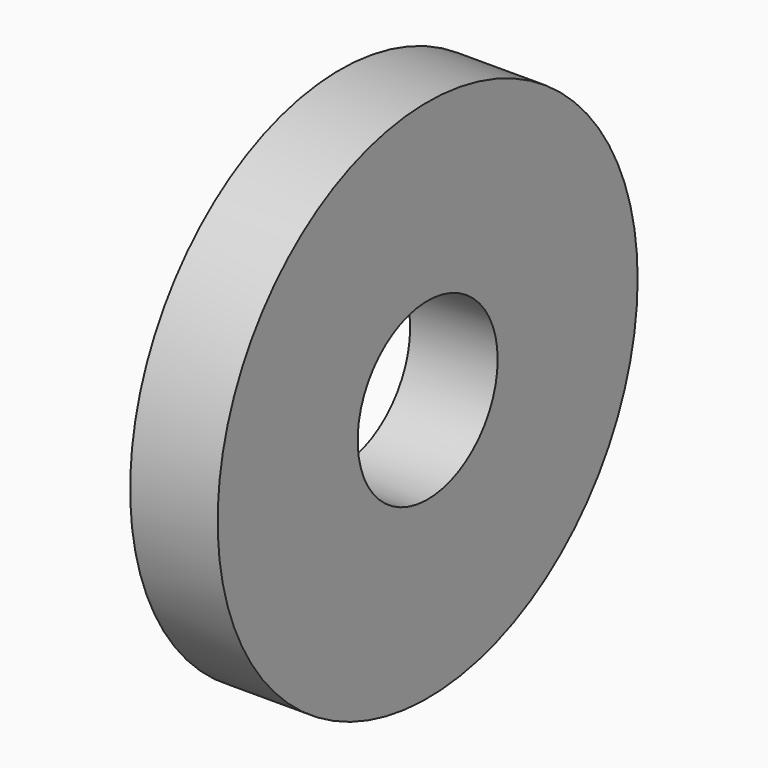
from build123d import *

# Parameters (mm, degrees)
F0_R     = 38.1
F1_DEPTH = 6.35
F2_R     = 12.7
F3_DEPTH = 12.701


with BuildPart() as f1:
    # F0 (on Right) → F1 (new body, symmetric)
    with BuildSketch(Plane.YZ):
        Circle(F0_R)
    extrude(amount=F1_DEPTH, both=True)

    # F2 (on face) → F3 (cut, through all)
    with BuildSketch(Plane.YZ.offset(6.35)):
        Circle(F2_R)
    extrude(amount=-F3_DEPTH, mode=Mode.SUBTRACT)


solid = f1.part
